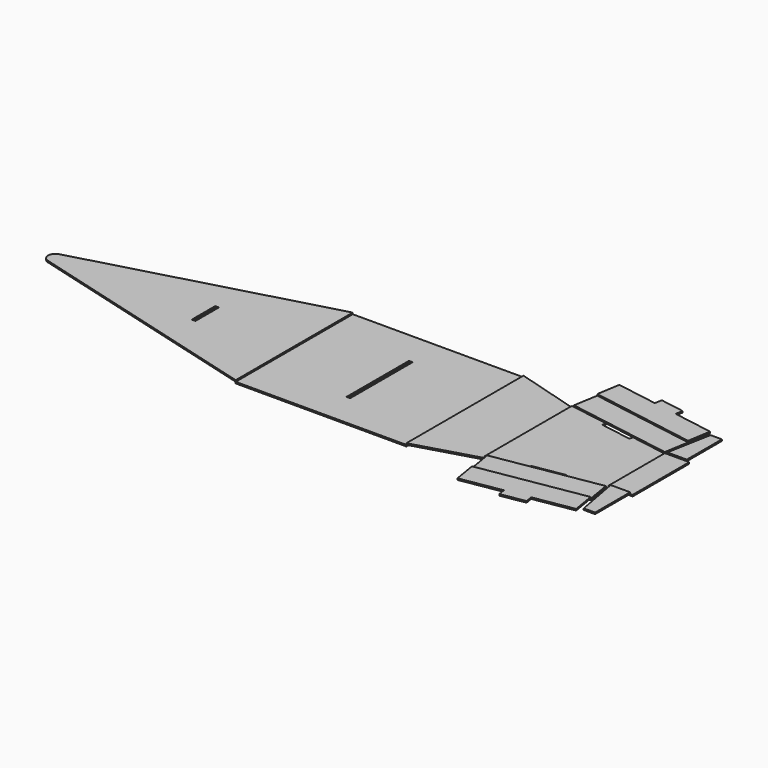
from build123d import *

# Parameters (mm, degrees)
F0_W      = 70
F0_H      = 60
F0_W_2    = 1.5
F0_H_2    = 32
F1_DEPTH  = 0.6
F2_W      = 1.5
F2_H      = 12
F3_DEPTH  = 0.6
F5_DEPTH  = 0.6
F7_DEPTH  = 0.6
F9_DEPTH  = 0.6
F8_W      = 10
F8_H      = 29.0153087513
F11_DEPTH = 0.6
F13_DEPTH = 25
F15_DEPTH = 0.6
F17_DEPTH = 25
F18_R     = 3


with BuildPart() as f1:
    # F0 (on Top) → F1 (new body)
    with BuildSketch(Plane.XY):
        Rectangle(F0_W, F0_H)
        Rectangle(F0_W_2, F0_H_2, mode=Mode.SUBTRACT)
    extrude(amount=F1_DEPTH)


with BuildPart() as f3:
    # F2 (on face) → F3 (new body)
    with BuildSketch(Plane.XY.offset(0.6)):
        Polygon((-35, 30), (-144.242, 0), (-35, -30), align=None)
        with Locations((-71.443, 0)):
            Rectangle(F2_W, F2_H, mode=Mode.SUBTRACT)
    extrude(amount=F3_DEPTH)

    # F18
    f18_edges = [f3.edges().sort_by_distance(p)[0] for p in [
        (-144.242, 0, 0.9),
    ]]
    fillet(f18_edges, radius=F18_R)


with BuildPart() as f5:
    # F4 (on face) → F5 (new body)
    with BuildSketch(Plane.XY.offset(0.6)):
        Polygon((60.9435370421, 22.4135788579), (35, 30), (35, -30), (60.9435370421, -22.4135788579), align=None)
    extrude(amount=F5_DEPTH)


with BuildPart() as f7:
    # F6 (on face) → F7 (new body)
    with BuildSketch(Plane.XY.offset(1.2)):
        Polygon((105.3806249593, 15.0076543757), (60.9435370421, 22.4135788579), (60.9435370421, -22.4135788579), (105.3806249593, -15.0076543757), align=None)
    extrude(amount=F7_DEPTH)

    # F16 (on face) → F17 (cut)
    with BuildSketch(Plane.XY.offset(1.8)):
        Polygon((76.7505230383, -18.2584833457), (76.9971131986, -19.7380756182), (89.8202462269, -17.6009608952), (89.5736560666, -16.1213686227), align=None)
        Polygon((76.9971131986, 19.7380756182), (76.7505230383, 18.2584833457), (89.5736560666, 16.1213686227), (89.8202462269, 17.6009608952), align=None)
    extrude(amount=-F17_DEPTH, mode=Mode.SUBTRACT)


with BuildPart() as f9:
    # F8 (on face) → F9 (new body)
    with BuildSketch(Plane.XY.offset(1.8)):
        Polygon((105.3806249593, -15.0076543757), (61.9299318904, -22.2491854176), (63.5738662927, -32.1131339009), (107.0245593616, -24.8716028589), align=None)
    extrude(amount=F9_DEPTH)


with BuildPart() as f9b:
    # F8 (on face) → F9, piece 2 (new body)
    with BuildSketch(Plane.XY.offset(1.8)):
        Polygon((61.9299318904, 22.2491854176), (105.3806249593, 15.0076543757), (107.0245593616, 24.8716028589), (63.5738662927, 32.1131339009), align=None)
    extrude(amount=F9_DEPTH)


with BuildPart() as f9c:
    # F8 (on face) → F9, piece 3 (new body)
    with BuildSketch(Plane.XY.offset(1.8)):
        with Locations((110.3806249593, 0)):
            Rectangle(F8_W, F8_H)
    extrude(amount=F9_DEPTH)


with BuildPart() as f11:
    # F10 (on face) → F11 (new body)
    with BuildSketch(Plane.XY.offset(2.4)):
        Polygon((107.0245593616, -24.8716028589), (63.5738662927, -32.1131339009), (65.1356039748, -41.4838849601), (81.9289774892, -38.6850864366), (82.4221578099, -41.6442709816), (92.2861050716, -40.0003367829), (91.7929247509, -37.0411522379), (108.5862970437, -34.2423539181), align=None)
    extrude(amount=F11_DEPTH)


with BuildPart() as f11b:
    # F10 (on face) → F11, piece 2 (new body)
    with BuildSketch(Plane.XY.offset(2.4)):
        Polygon((91.7929247509, 37.0411522379), (92.2861050716, 40.0003367829), (82.4221578099, 41.6442709816), (81.9289774892, 38.6850864366), (65.1356039748, 41.4838849601), (63.5738662927, 32.1131339009), (107.0245593616, 24.8716028589), (108.5862970437, 34.2423539181), align=None)
    extrude(amount=F11_DEPTH)


with BuildPart() as f13_tool:
    # F12 (on face) → F13 (new body)
    with BuildSketch(Plane.XY.offset(3)):
        Polygon((108.9898869395, 36.0006503761), (108.0930996196, 34.3245506382), (104.8874275352, 15.0898510958), (107.0036945651, 14.7371521557), (111.1459434032, 36.8837378919), align=None)
        Polygon((107.0036945651, -14.7371521557), (104.8874275352, -15.0898510958), (108.0930996196, -34.3245506382), (108.9898869395, -36.0006503761), (111.1459434032, -36.8837378919), align=None)
    extrude(amount=-F13_DEPTH)


with BuildPart() as f9_1:
    add(f9.part)

    # F13: cut by f13_tool
    add(f13_tool.part, mode=Mode.SUBTRACT)


with BuildPart() as f9b_1:
    add(f9b.part)

    # F13: cut by f13_tool
    add(f13_tool.part, mode=Mode.SUBTRACT)


with BuildPart() as f11_1:
    add(f11.part)

    # F13: cut by f13_tool
    add(f13_tool.part, mode=Mode.SUBTRACT)


with BuildPart() as f11b_1:
    add(f11b.part)

    # F13: cut by f13_tool
    add(f13_tool.part, mode=Mode.SUBTRACT)


with BuildPart() as f15:
    # F14 (on face) → F15 (new body)
    with BuildSketch(Plane.XY.offset(2.4)):
        Polygon((109.7266301513, 32.5076543757), (106.3806249593, 14.5076543757), (114.3806249593, 14.5076543757), (114.3806249593, 32.5076543757), align=None)
    extrude(amount=F15_DEPTH)


with BuildPart() as f15b:
    # F14 (on face) → F15, piece 2 (new body)
    with BuildSketch(Plane.XY.offset(2.4)):
        Polygon((106.3806249593, -14.5076543757), (109.7266301513, -32.5076543757), (114.3806249593, -32.5076543757), (114.3806249593, -14.5076543757), align=None)
    extrude(amount=F15_DEPTH)


solid = Compound([f1.part, f3.part, f5.part, f7.part, f9c.part, f9_1.part, f9b_1.part, f11_1.part, f11b_1.part, f15.part, f15b.part])
